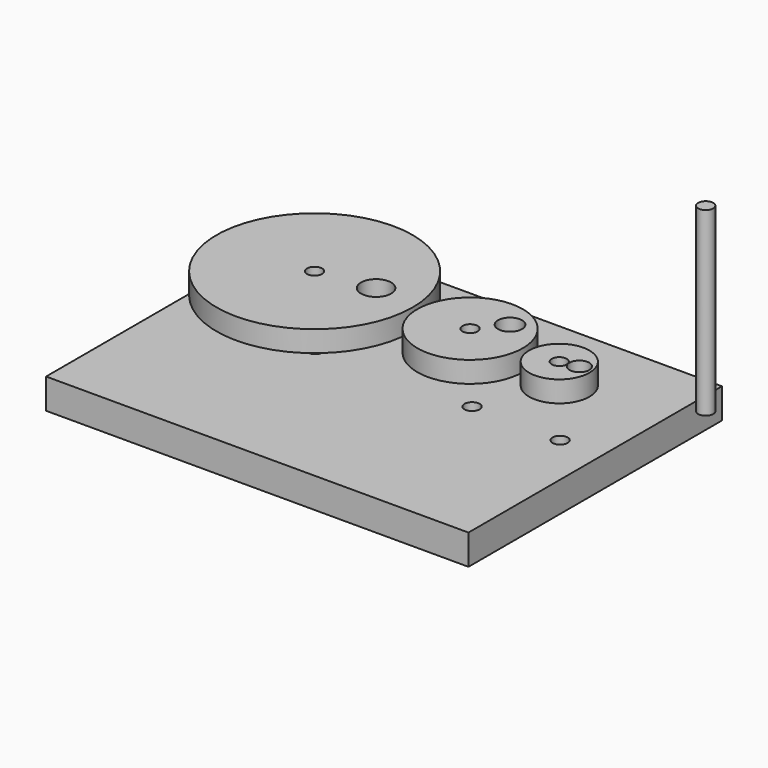
from build123d import *

# Parameters (mm, degrees)
F1_W     = 88.9
F1_H     = 66.675
F1_R     = 1.5875
F3_DEPTH = 16.51
F4_DEPTH = 10.16
F0_R     = 20.6375
F0_R_2   = 1.5875
F0_R_3   = 3.175
F0_R_4   = 11.1125
F0_R_5   = 2.528519
F0_R_6   = 6.35
F0_R_7   = 2.085922
F5_DEPTH = 4.445
F2_R     = 1.5875
F6_DEPTH = 38.1


with BuildPart() as f3:
    # F1 (on Top) → F3 (new body)
    with BuildSketch(Plane.XY):
        with Locations((-30.020347, -1.5875)):
            Rectangle(F1_W, F1_H)
        with Locations((-45.890279, 0.148994)):
            Circle(F1_R, mode=Mode.SUBTRACT)
        with Locations((-13.111511, 0.446983)):
            Circle(F1_R, mode=Mode.SUBTRACT)
        with Locations((5.661787, 0.148994)):
            Circle(F1_R, mode=Mode.SUBTRACT)
    extrude(amount=-F3_DEPTH)

    # F1 (on Top) → F4 (cut)
    with BuildSketch(Plane.XY):
        with Locations((-30.020347, -1.5875)):
            Rectangle(F1_W, F1_H)
        with Locations((-45.890279, 0.148994)):
            Circle(F1_R, mode=Mode.SUBTRACT)
        with Locations((-13.111511, 0.446983)):
            Circle(F1_R, mode=Mode.SUBTRACT)
        with Locations((5.661787, 0.148994)):
            Circle(F1_R, mode=Mode.SUBTRACT)
    extrude(amount=-F4_DEPTH, mode=Mode.SUBTRACT)


with BuildPart() as f5:
    # F0 (on Top) → F5 (new body)
    with BuildSketch(Plane.XY):
        with Locations((-45.895347, 0)):
            Circle(F0_R)
        with Locations((-45.895347, 0)):
            Circle(F0_R_2, mode=Mode.SUBTRACT)
        with Locations((-34.268714, 1.638939)):
            Circle(F0_R_3, mode=Mode.SUBTRACT)
        with Locations((-13.171278, 0)):
            Circle(F0_R_4)
        with Locations((-13.171278, 0)):
            Circle(F0_R_2, mode=Mode.SUBTRACT)
        with Locations((-8.939665, 5.214805)):
            Circle(F0_R_5, mode=Mode.SUBTRACT)
        with Locations((5.596927, 0)):
            Circle(F0_R_6)
        with Locations((5.596927, 0)):
            Circle(F0_R_2, mode=Mode.SUBTRACT)
        with Locations((9.237655, 0.744972)):
            Circle(F0_R_7, mode=Mode.SUBTRACT)
    extrude(amount=F5_DEPTH)


with BuildPart() as f6:
    # F2 (on Top) → F6 (new body)
    with BuildSketch(Plane.XY):
        with Locations((30.09687, 7.896704)):
            Circle(F2_R)
    extrude(amount=F6_DEPTH)


solid = Compound([f3.part, f5.part, f6.part])
